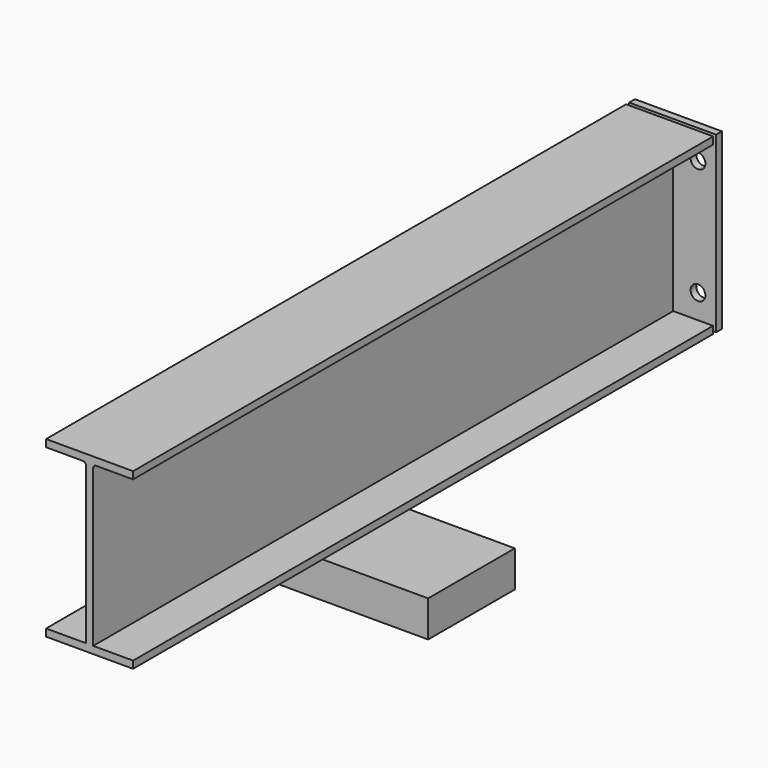
from build123d import *

# Parameters (mm, degrees)
F1_DEPTH = 500
F3_W     = 60
F3_H     = 120
F3_R     = 5.1
F4_DEPTH = 5
F5_R     = 2
F6_R     = 2
F7_W     = 199.480854
F7_H     = 74.723839
F8_DEPTH = 25


with BuildPart() as f1:
    # F0 (on Front) → F1 (new body)
    with BuildSketch(Plane.XZ):
        Polygon((-30, 55), (-2.5, 55), (-2.5, -55), (-30, -55), (-30, -60), (30, -60), (30, -55), (2.5, -55), (2.5, 55), (30, 55), (30, 60), (-30, 60), align=None)
    extrude(amount=F1_DEPTH)

    # F5
    f5_edges = [f1.edges().sort_by_distance(p)[0] for p in [
        (2.5, -250, 55),
    ]]
    fillet(f5_edges, radius=F5_R)

    # F6
    f6_edges = [f1.edges().sort_by_distance(p)[0] for p in [
        (-2.5, -250, 55),
    ]]
    fillet(f6_edges, radius=F6_R)


with BuildPart() as f4:
    # F3 (on offset) → F4 (new body)
    with BuildSketch(Plane(origin=(0, 2.6, 0), x_dir=(1, 0, 0), z_dir=(0, 1, 0))):
        Rectangle(F3_W, F3_H)
        with Locations((-17.5, -40)):
            Circle(F3_R, mode=Mode.SUBTRACT)
        with Locations((17.5, -40)):
            Circle(F3_R, mode=Mode.SUBTRACT)
        with Locations((-17.5, 40)):
            Circle(F3_R, mode=Mode.SUBTRACT)
        with Locations((17.5, 40)):
            Circle(F3_R, mode=Mode.SUBTRACT)
    extrude(amount=F4_DEPTH)


with BuildPart() as f8:
    # F7 (on face) → F8 (new body)
    with BuildSketch(Plane(origin=(0, 0, -60), x_dir=(1, 0, 0), z_dir=(0, 0, -1))):
        with Locations((2.973612, 299.19064)):
            Rectangle(F7_W, F7_H)
    extrude(amount=F8_DEPTH)


solid = Compound([f1.part, f4.part, f8.part])
